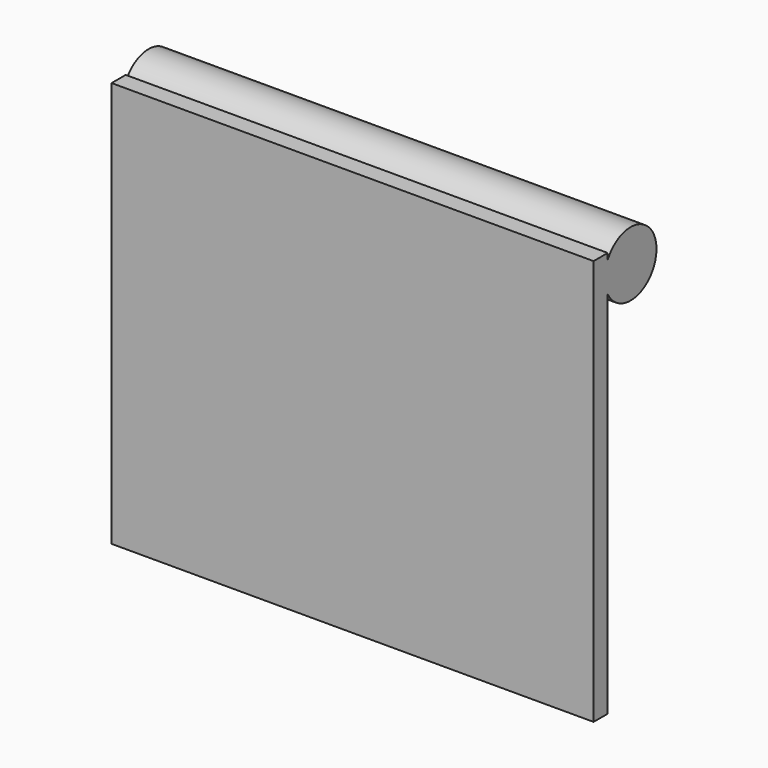
from build123d import *

# Parameters (mm, degrees)
F0_W          = 130.06
F0_H          = 109.46
F1_DEPTH      = 4.77
F2_R          = 8.735
F3_DEPTH      = 65.03
F3_DEPTH_BACK = 65.03


with BuildPart() as f1:
    # F0 (on Front) → F1 (new body)
    with BuildSketch(Plane.XZ):
        Rectangle(F0_W, F0_H)
    extrude(amount=F1_DEPTH)

    # F2 (on Right) → F3 (join, two sides)
    with BuildSketch(Plane.YZ) as f3_sk:
        with Locations((7.71413, 49.009632)):
            Circle(F2_R)
    extrude(amount=F3_DEPTH)
    extrude(f3_sk.sketch, amount=-F3_DEPTH_BACK)


solid = f1.part
